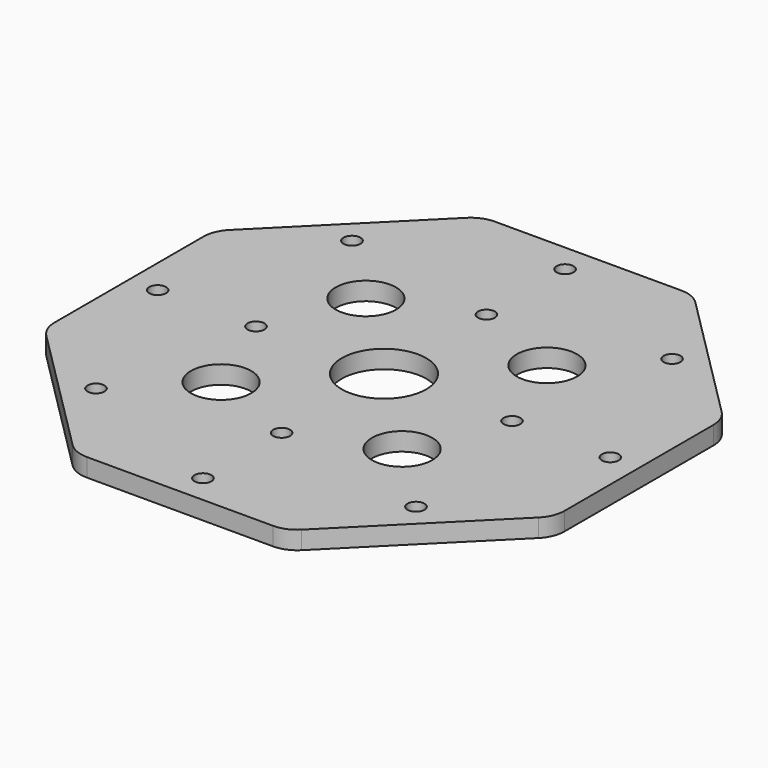
from build123d import *

# Parameters (mm, degrees)
F0_R     = 1.4
F0_R_2   = 5
F0_R_3   = 7
F1_DEPTH = 3


with BuildPart() as f1:
    # F0 (on Top) → F1 (new body)
    with BuildSketch(Plane.XY):
        with BuildLine():
            Line((15.428932, 42.248737), (-15.428932, 42.248737))
            ThreePointArc((-15.428932, 42.248737), (-17.342349, 41.868135), (-18.964466, 40.784271))
            Line((-18.964466, 40.784271), (-40.784271, 18.964466))
            ThreePointArc((-40.784271, 18.964466), (-41.868135, 17.342349), (-42.248737, 15.428932))
            Line((-42.248737, 15.428932), (-42.248737, -15.428932))
            ThreePointArc((-42.248737, -15.428932), (-41.868135, -17.342349), (-40.784271, -18.964466))
            Line((-40.784271, -18.964466), (-18.964466, -40.784271))
            ThreePointArc((-18.964466, -40.784271), (-17.342349, -41.868135), (-15.428932, -42.248737))
            Line((-15.428932, -42.248737), (15.428932, -42.248737))
            ThreePointArc((15.428932, -42.248737), (17.342349, -41.868135), (18.964466, -40.784271))
            Line((18.964466, -40.784271), (40.784271, -18.964466))
            ThreePointArc((40.784271, -18.964466), (41.868135, -17.342349), (42.248737, -15.428932))
            Line((42.248737, -15.428932), (42.248737, 15.428932))
            ThreePointArc((42.248737, 15.428932), (41.868135, 17.342349), (40.784271, 18.964466))
            Line((40.784271, 18.964466), (18.964466, 40.784271))
            ThreePointArc((18.964466, 40.784271), (17.342349, 41.868135), (15.428932, 42.248737))
        make_face()
        with Locations((-26.516504, -26.516504)):
            Circle(F0_R, mode=Mode.SUBTRACT)
        with Locations((0, -37.5)):
            Circle(F0_R, mode=Mode.SUBTRACT)
        with Locations((0, -21.213203)):
            Circle(F0_R, mode=Mode.SUBTRACT)
        with Locations((-37.5, 0)):
            Circle(F0_R, mode=Mode.SUBTRACT)
        with Locations((-21.213203, 0)):
            Circle(F0_R, mode=Mode.SUBTRACT)
        with Locations((-15, -15)):
            Circle(F0_R_2, mode=Mode.SUBTRACT)
        Circle(F0_R_3, mode=Mode.SUBTRACT)
        with Locations((26.516504, -26.516504)):
            Circle(F0_R, mode=Mode.SUBTRACT)
        with Locations((15, -15)):
            Circle(F0_R_2, mode=Mode.SUBTRACT)
        with Locations((21.213203, 0)):
            Circle(F0_R, mode=Mode.SUBTRACT)
        with Locations((37.5, 0)):
            Circle(F0_R, mode=Mode.SUBTRACT)
        with Locations((-15, 15)):
            Circle(F0_R_2, mode=Mode.SUBTRACT)
        with Locations((-26.516504, 26.516504)):
            Circle(F0_R, mode=Mode.SUBTRACT)
        with Locations((0, 21.213203)):
            Circle(F0_R, mode=Mode.SUBTRACT)
        with Locations((0, 37.5)):
            Circle(F0_R, mode=Mode.SUBTRACT)
        with Locations((15, 15)):
            Circle(F0_R_2, mode=Mode.SUBTRACT)
        with Locations((26.516504, 26.516504)):
            Circle(F0_R, mode=Mode.SUBTRACT)
    extrude(amount=F1_DEPTH)


solid = f1.part
